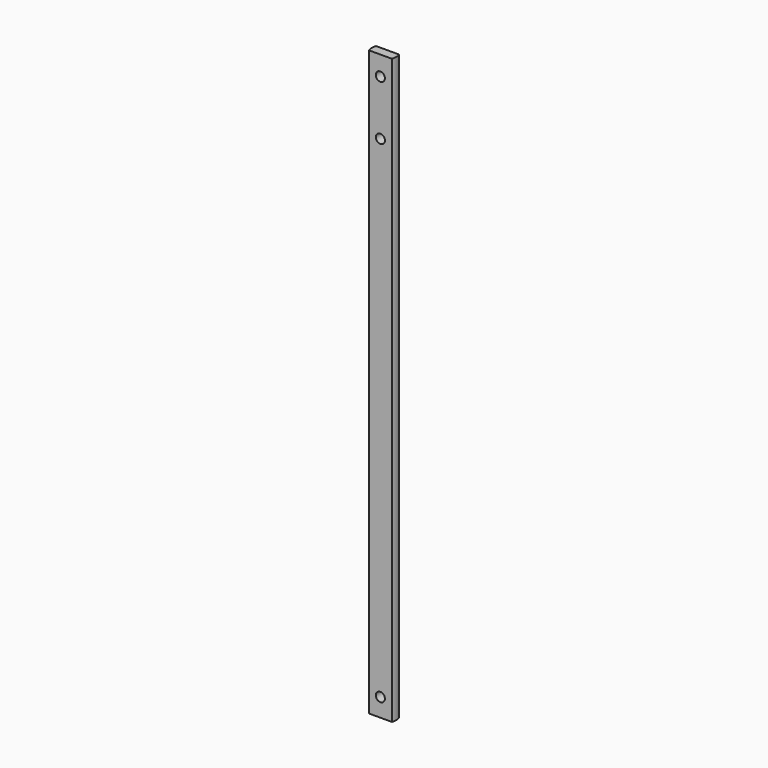
from build123d import *

# Parameters (mm, degrees)
F1_DEPTH = 152.4
F2_R     = 2.38125
F3_DEPTH = 4.7635


with BuildPart() as f1:
    # F0 (on Top) → F1 (new body, symmetric)
    with BuildSketch(Plane.XY):
        with BuildLine():
            ThreePointArc((6.0693408105, 2.2384535841), (5.9957758972, 2.3417024493), (5.8753262569, 2.38125))
            Line((5.8753262569, 2.38125), (-5.8917195974, 2.38125))
            ThreePointArc((-5.8917195974, 2.38125), (-6.0127842548, 2.3412480047), (-6.0861832837, 2.2369916213))
            ThreePointArc((-6.0861832837, 2.2369916213), (-6.4137410905, -0.0019953736), (-6.0693408105, -2.2384535841))
            ThreePointArc((-6.0693408105, -2.2384535841), (-5.9957758972, -2.3417024493), (-5.8753262569, -2.38125))
            Line((-5.8753262569, -2.38125), (5.8917195974, -2.38125))
            ThreePointArc((5.8917195974, -2.38125), (6.0127842548, -2.3412480047), (6.0861832837, -2.2369916213))
            ThreePointArc((6.0861832837, -2.2369916213), (6.4137410905, 0.0019953736), (6.0693408105, 2.2384535841))
        make_face()
    extrude(amount=F1_DEPTH, both=True)

    # F2 (on face) → F3 (cut, through all)
    with BuildSketch(Plane(origin=(0, 2.38125, 0), x_dir=(-1, 0, 0), z_dir=(0, 1, 0))):
        with Locations((0, 142.24)):
            Circle(F2_R)
        with Locations((0, 113.665)):
            Circle(F2_R)
        with Locations((0, -142.875)):
            Circle(F2_R)
    extrude(amount=-F3_DEPTH, mode=Mode.SUBTRACT)


solid = f1.part
